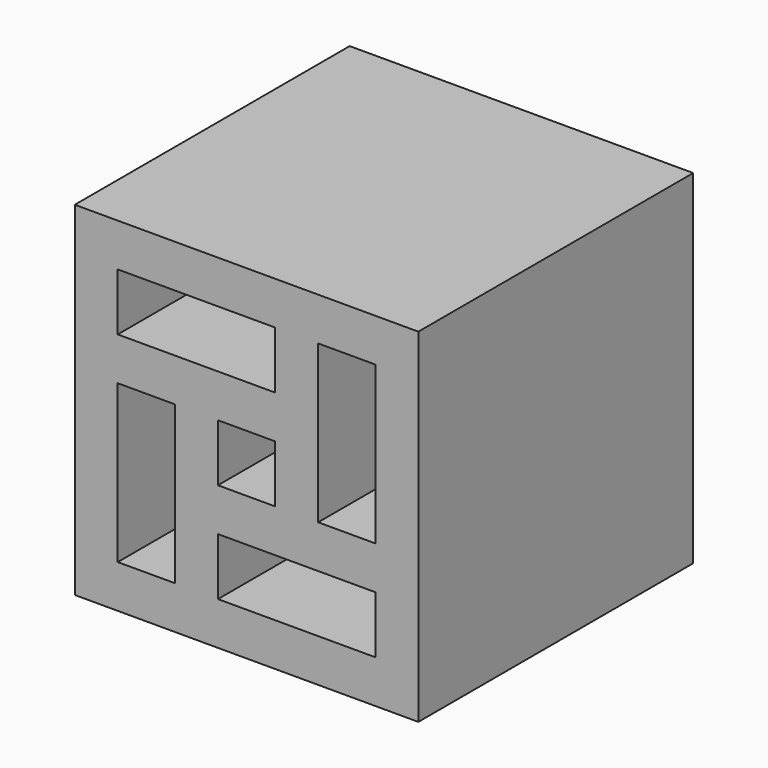
from build123d import *

# Parameters (mm, degrees)
F2_W     = 152.4
F2_H     = 152.4
F0_DEPTH = 76.2
F3_W     = 69.85
F3_H     = 25.4
F3_W_2   = 25.4
F3_H_2   = 69.85
F1_DEPTH = 152.401


with BuildPart() as f0:
    # F2 (on Top) → F0 (new body, symmetric)
    with BuildSketch(Plane.XY):
        Rectangle(F2_W, F2_H)
    extrude(amount=F0_DEPTH, both=True)

    # F3 (on face) → F1 (cut, through all)
    with BuildSketch(Plane.XZ.offset(76.2)):
        with Locations((-22.225, 44.45)):
            Rectangle(F3_W, F3_H)
        with Locations((44.45, 22.225)):
            Rectangle(F3_W_2, F3_H_2)
        with Locations((-44.45, -22.225)):
            Rectangle(F3_W_2, F3_H_2)
        Rectangle(F3_W_2, F3_H)
        with Locations((22.225, -44.45)):
            Rectangle(F3_W, F3_H)
    extrude(amount=-F1_DEPTH, mode=Mode.SUBTRACT)


solid = f0.part
